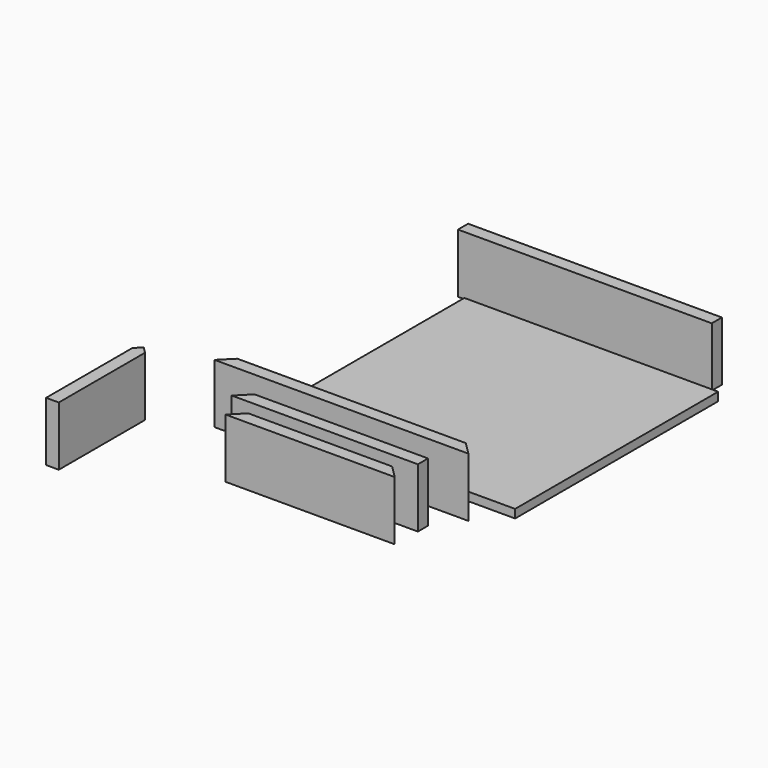
from build123d import *

# Parameters (mm, degrees)
F0_W      = 381
F0_H      = 381
F1_DEPTH  = 12.7
F2_W      = 381
F2_H      = 19.05
F3_DEPTH  = 88.9
F4_W      = 381
F4_H      = 19.05
F5_DEPTH  = 88.9
F7_DEPTH  = 88.901
F8_W      = 279.4
F8_H      = 19.05
F9_DEPTH  = 88.9
F10_W     = 254
F10_H     = 19.05
F11_DEPTH = 88.9
F13_DEPTH = 88.901
F15_DEPTH = 88.901
F16_W     = 19.05
F16_H     = 171.45
F17_DEPTH = 88.9
F19_DEPTH = 88.901


with BuildPart() as f1:
    # F0 (on Top) → F1 (new body)
    with BuildSketch(Plane.XY):
        Rectangle(F0_W, F0_H)
    extrude(amount=F1_DEPTH)


with BuildPart() as f3:
    # F2 (on Top) → F3 (new body)
    with BuildSketch(Plane.XY):
        with Locations((-22.850419, 216.584572)):
            Rectangle(F2_W, F2_H)
    extrude(amount=F3_DEPTH)


with BuildPart() as f5:
    # F4 (on Top) → F5 (new body)
    with BuildSketch(Plane.XY):
        with Locations((-39.005031, -219.956725)):
            Rectangle(F4_W, F4_H)
    extrude(amount=F5_DEPTH)

    # F6 (on face) → F7 (cut, through all)
    with BuildSketch(Plane.XY.offset(88.9)):
        Polygon((-210.455031, -210.431725), (-229.505031, -210.431725), (-229.505031, -229.481725), align=None)
        Polygon((151.494969, -229.481725), (151.494969, -210.431725), (132.444969, -210.431725), align=None)
    extrude(amount=-F7_DEPTH, mode=Mode.SUBTRACT)


with BuildPart() as f9:
    # F8 (on Top) → F9 (new body)
    with BuildSketch(Plane.XY):
        with Locations((-17.488475, -278.059736)):
            Rectangle(F8_W, F8_H)
    extrude(amount=F9_DEPTH)

    # F12 (on face) → F13 (cut, through all)
    with BuildSketch(Plane.XY.offset(88.9)):
        Polygon((-138.138475, -268.534736), (-157.188475, -268.534736), (-157.188475, -287.584736), align=None)
    extrude(amount=-F13_DEPTH, mode=Mode.SUBTRACT)


with BuildPart() as f11:
    # F10 (on Top) → F11 (new body)
    with BuildSketch(Plane.XY):
        with Locations((-5.803525, -320.281237)):
            Rectangle(F10_W, F10_H)
    extrude(amount=F11_DEPTH)

    # F14 (on face) → F15 (cut, through all)
    with BuildSketch(Plane.XY.offset(88.9)):
        Polygon((-132.803525, -310.756237), (-132.803525, -329.806237), (-113.753525, -310.756237), align=None)
        Polygon((121.196475, -310.756237), (102.146475, -310.756237), (121.196475, -329.806237), align=None)
    extrude(amount=-F15_DEPTH, mode=Mode.SUBTRACT)


with BuildPart() as f17:
    # F16 (on Top) → F17 (new body)
    with BuildSketch(Plane.XY):
        with Locations((-313.99744, -342.295409)):
            Rectangle(F16_W, F16_H)
    extrude(amount=F17_DEPTH)

    # F18 (on face) → F19 (cut, through all)
    with BuildSketch(Plane.XY.offset(88.9)):
        Polygon((-323.52244, -256.570409), (-323.52244, -266.095409), (-313.99744, -256.570409), align=None)
        Polygon((-304.47244, -256.570409), (-313.99744, -256.570409), (-304.47244, -266.095409), align=None)
    extrude(amount=-F19_DEPTH, mode=Mode.SUBTRACT)


solid = Compound([f1.part, f3.part, f5.part, f9.part, f11.part, f17.part])
